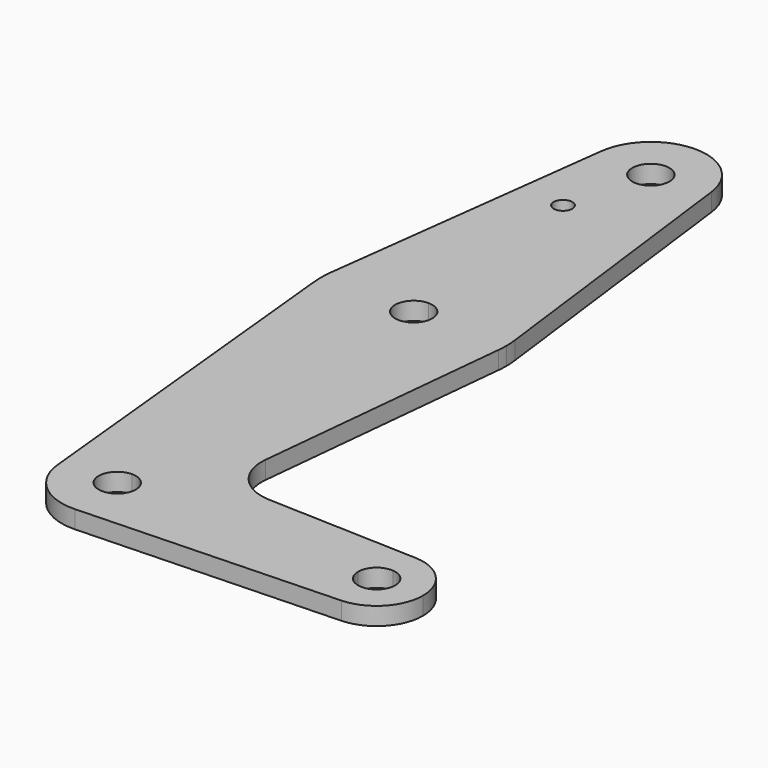
from build123d import *

# Parameters (mm, degrees)
F0_R     = 1.5875
F1_DEPTH = 3.048


with BuildPart() as f1:
    # F0 (on Top) → F1 (new body)
    with BuildSketch(Plane.XY):
        with BuildLine():
            ThreePointArc((3.175, 0), (-2.2450640303, -2.2450640303), (0, 3.175))
            Line((0, 3.175), (0, 9.525))
            ThreePointArc((0, 9.525), (-7.063929059, 6.3895642457), (-9.4772553384, -0.9525))
            ThreePointArc((-9.4772553384, -0.9525), (-6.2623833588, -7.176919929), (0.340178632, -9.5189234422))
            ThreePointArc((0.340178632, -9.5189234422), (6.8544083067, -6.6138273159), (9.525, 0))
            Line((9.525, 0), (3.175, 0))
        make_face()
        with BuildLine():
            ThreePointArc((-9.4772553384, -0.9525), (-7.063929059, 6.3895642457), (0, 9.525))
            Line((0, 9.525), (0, 47.625))
            ThreePointArc((0, 47.625), (-10.6492737428, 51.7267849017), (-15.7954255641, 61.9125))
            Line((-15.7954255641, 61.9125), (-9.4772553384, -0.9525))
        make_face()
        with BuildLine():
            Line((0, 47.625), (0, 9.525))
            ThreePointArc((0, 9.525), (6.7351920908, 6.7351920908), (9.525, 0))
            Line((9.525, 0), (36.5125, 0))
            ThreePointArc((36.5125, 0), (38.9384772185, 5.7120069047), (44.7334821429, 7.9324362036))
            Line((44.7334821429, 7.9324362036), (18.9676000005, 8.8532337108))
            ThreePointArc((18.9676000005, 8.8532337108), (13.2611998974, 11.5713591498), (11.3411865923, 17.5933818124))
            Line((11.3411865923, 17.5933818124), (15.7954255641, 61.9125))
            ThreePointArc((15.7954255641, 61.9125), (10.6492737428, 51.7267849017), (0, 47.625))
        make_face()
        with BuildLine():
            Line((36.5125, 0), (9.525, 0))
            ThreePointArc((9.525, 0), (6.8544083067, -6.6138273159), (0.340178632, -9.5189234422))
            Line((0.340178632, -9.5189234422), (44.7334821429, -7.9324362036))
            ThreePointArc((44.7334821429, -7.9324362036), (38.9384772185, -5.7120069047), (36.5125, 0))
        make_face()
        with BuildLine():
            ThreePointArc((-15.7954255641, 61.9125), (-10.6492737428, 51.7267849017), (0, 47.625))
            Line((0, 47.625), (0, 60.325))
            ThreePointArc((0, 60.325), (-3.175, 63.5), (0, 66.675))
            Line((0, 66.675), (0, 79.375))
            ThreePointArc((0, 79.375), (-10.5003255158, 75.40625), (-15.7504882737, 65.484375))
            ThreePointArc((-15.7504882737, 65.484375), (-15.8737438155, 63.6997054867), (-15.7954255641, 61.9125))
        make_face()
        with BuildLine():
            Line((0, 60.325), (0, 47.625))
            ThreePointArc((0, 47.625), (10.6492737428, 51.7267849017), (15.7954255641, 61.9125))
            ThreePointArc((15.7954255641, 61.9125), (15.8550939106, 62.7052534459), (15.875, 63.5))
            ThreePointArc((15.875, 63.5), (15.8438414904, 64.4941387366), (15.7504882737, 65.484375))
            ThreePointArc((15.7504882737, 65.484375), (10.5003255158, 75.40625), (0, 79.375))
            Line((0, 79.375), (0, 66.675))
            ThreePointArc((0, 66.675), (2.2450640303, 65.7450640303), (3.175, 63.5))
            ThreePointArc((3.175, 63.5), (2.2450640303, 61.2549359697), (0, 60.325))
        make_face()
        with BuildLine():
            ThreePointArc((44.7334821429, 7.9324362036), (38.9384772185, 5.7120069047), (36.5125, 0))
            Line((36.5125, 0), (41.275, 0))
            ThreePointArc((41.275, 0), (42.3075050529, 2.3431475416), (44.7334821429, 3.162319224))
            Line((44.7334821429, 3.162319224), (44.7334821429, 7.9324362036))
        make_face()
        with BuildLine():
            Line((41.275, 0), (36.5125, 0))
            ThreePointArc((36.5125, 0), (38.9384772185, -5.7120069047), (44.7334821429, -7.9324362036))
            Line((44.7334821429, -7.9324362036), (44.7334821429, -3.162319224))
            ThreePointArc((44.7334821429, -3.162319224), (42.3075050529, -2.3431475416), (41.275, 0))
        make_face()
        with BuildLine():
            ThreePointArc((52.3875, 0), (50.1620069047, 5.5115227815), (44.7334821429, 7.9324362036))
            Line((44.7334821429, 7.9324362036), (44.7334821429, 3.162319224))
            ThreePointArc((44.7334821429, 3.162319224), (46.7931475416, 2.1424949471), (47.625, 0))
            ThreePointArc((47.625, 0), (46.7931475416, -2.1424949471), (44.7334821429, -3.162319224))
            Line((44.7334821429, -3.162319224), (44.7334821429, -7.9324362036))
            ThreePointArc((44.7334821429, -7.9324362036), (50.1620069047, -5.5115227815), (52.3875, 0))
        make_face()
        with BuildLine():
            Line((-9.4502929642, 115.490625), (-15.7504882737, 65.484375))
            ThreePointArc((-15.7504882737, 65.484375), (-10.5003255158, 75.40625), (0, 79.375))
            Line((0, 79.375), (0, 104.775))
            ThreePointArc((0, 104.775), (-7.14375, 107.9998046905), (-9.4502929642, 115.490625))
        make_face()
        with Locations((-3.6344674882, 100.0252)):
            Circle(F0_R, mode=Mode.SUBTRACT)
        with BuildLine():
            Line((0, 104.775), (0, 79.375))
            ThreePointArc((0, 79.375), (10.5003255158, 75.40625), (15.7504882737, 65.484375))
            Line((15.7504882737, 65.484375), (9.4502929784, 115.4906248877))
            ThreePointArc((9.4502929784, 115.4906248877), (9.5063048978, 114.8964831855), (9.525, 114.3))
            ThreePointArc((9.525, 114.3), (6.7351920908, 107.5648079092), (0, 104.775))
        make_face()
        with BuildLine():
            ThreePointArc((9.4502929784, 115.4906248877), (5.66e-08, 123.825), (-9.4502929642, 115.490625))
            ThreePointArc((-9.4502929642, 115.490625), (-7.14375, 107.9998046905), (0, 104.775))
            ThreePointArc((0, 104.775), (6.7351920908, 107.5648079092), (9.525, 114.3))
            ThreePointArc((9.525, 114.3), (9.5063048978, 114.8964831855), (9.4502929784, 115.4906248877))
        make_face()
        with BuildLine():
            ThreePointArc((3.175, 114.3), (2.2450640303, 112.0549359697), (0, 111.125))
            ThreePointArc((0, 111.125), (-2.2450640303, 116.5450640303), (3.175, 114.3))
        make_face(mode=Mode.SUBTRACT)
        with BuildLine():
            Line((0, 9.525), (0, 3.175))
            ThreePointArc((0, 3.175), (2.2450640303, 2.2450640303), (3.175, 0))
            Line((3.175, 0), (9.525, 0))
            ThreePointArc((9.525, 0), (6.7351920908, 6.7351920908), (0, 9.525))
        make_face()
    extrude(amount=F1_DEPTH)


solid = f1.part
